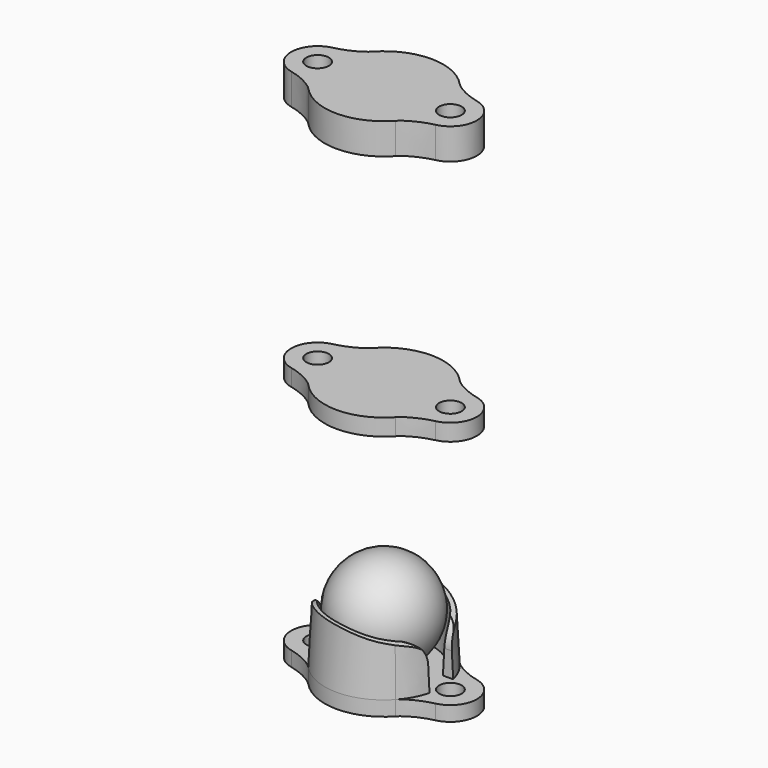
from build123d import *

# Parameters (mm, degrees)
F0_R      = 1.143
F0_R_2    = 2.8456204591
F1_DEPTH  = 1.5
F2_R      = 5.0041919231
F3_DEPTH  = 5.9
F3_TAPER  = 3
F5_DEPTH  = 12.5
F8_DEPTH  = 5
F11_DEPTH = 3
F16_R     = 1.143
F17_DEPTH = 1.7
F19_R     = 1.143
F20_DEPTH = 3.15


with BuildPart() as f1:
    # F0 (on Top) → F1 (new body)
    with BuildSketch(Plane.XY):
        with BuildLine():
            add(Edge.make_bspline(
                [(-7.2984665157, -2.6173944273), (-6.2042335048, -2.8546305839), (-4.9513294362, -3.4839485306), (-4.4265845051, -4.0565589196)],
                knots=[0, 0, 0, 0, 3.2123045807, 3.2123045807, 3.2123045807, 3.2123045807], degree=3))
            ThreePointArc((-4.4265845051, -4.0565589196), (0, -6.0041919231), (4.4265845051, -4.0565589196))
            add(Edge.make_bspline(
                [(7.2984665157, -2.6173944273), (6.2042335048, -2.8546305839), (4.9513294362, -3.4839485306), (4.4265845051, -4.0565589196)],
                knots=[0, 0, 0, 0, 3.2123045807, 3.2123045807, 3.2123045807, 3.2123045807], degree=3))
            ThreePointArc((7.2984665157, -2.6173944273), (9.4092030981, 0), (7.2984665157, 2.6173944273))
            add(Edge.make_bspline(
                [(7.2984665157, 2.6173944273), (6.2042335048, 2.8546305839), (4.9513294362, 3.4839485306), (4.4265845051, 4.0565589196)],
                knots=[0, 0, 0, 0, 3.2123045807, 3.2123045807, 3.2123045807, 3.2123045807], degree=3))
            ThreePointArc((4.4265845051, 4.0565589196), (0, 6.0041919231), (-4.4265845051, 4.0565589196))
            add(Edge.make_bspline(
                [(-7.2984665157, 2.6173944273), (-6.2042335048, 2.8546305839), (-4.9513294362, 3.4839485306), (-4.4265845051, 4.0565589196)],
                knots=[0, 0, 0, 0, 3.2123045807, 3.2123045807, 3.2123045807, 3.2123045807], degree=3))
            ThreePointArc((-7.2984665157, 2.6173944273), (-9.4092030981, 0), (-7.2984665157, -2.6173944273))
        make_face()
        with Locations((-6.731, 0)):
            Circle(F0_R, mode=Mode.SUBTRACT)
        Circle(F0_R_2, mode=Mode.SUBTRACT)
        with Locations((6.731, 0)):
            Circle(F0_R, mode=Mode.SUBTRACT)
    extrude(amount=F1_DEPTH)

    # F2 (on face) → F3 (join)
    with BuildSketch(Plane.XY.offset(1.5)):
        with BuildLine():
            ThreePointArc((5.946384835, 0.8311606601), (5.4314290676, 2.5592770333), (4.4265845051, 4.0565589196))
            ThreePointArc((4.4265845051, 4.0565589196), (0, 6.0041919231), (-4.4265845051, 4.0565589196))
            ThreePointArc((-4.4265845051, 4.0565589196), (-5.4314290676, 2.5592770333), (-5.946384835, 0.8311606601))
            ThreePointArc((-5.946384835, 0.8311606601), (-5.6814133829, 0.4525670483), (-5.588, 0))
            ThreePointArc((-5.588, 0), (-5.6814133829, -0.4525670483), (-5.946384835, -0.8311606601))
            ThreePointArc((-5.946384835, -0.8311606601), (-5.4314290676, -2.5592770333), (-4.4265845051, -4.0565589196))
            ThreePointArc((-4.4265845051, -4.0565589196), (0, -6.0041919231), (4.4265845051, -4.0565589196))
            ThreePointArc((4.4265845051, -4.0565589196), (5.4314290676, -2.5592770333), (5.946384835, -0.8311606601))
            ThreePointArc((5.946384835, -0.8311606601), (5.588, 0), (5.946384835, 0.8311606601))
        make_face()
        Circle(F2_R, mode=Mode.SUBTRACT)
    extrude(amount=F3_DEPTH, taper=F3_TAPER)

    # F4 (on Front) → F5 (intersect, symmetric)
    with BuildSketch(Plane.XZ):
        with BuildLine():
            add(Edge.make_bspline(
                [(-5.946384835, 1.5), (-5.9463647853, 2.6712965471), (-5.7905424174, 4.6856700767), (-5.5972039, 6.3163237013), (-4.3928711875, 7.1522429039), (-2.8376029373, 7.4161516003), (-0.7200836101, 7.340335589), (0.7802516867, 7.1533421497), (3.1334235091, 6.5223835781), (3.8186280211, 6.3529182377), (4.8167760645, 6.0376571627), (5.1949238805, 5.7988276186), (5.5146376508, 5.3802243722), (5.8311107868, 4.4006531817), (5.9067641402, 2.6107844785), (5.946384835, 1.5)],
                knots=[0, 0, 0, 0, 0.1159964826, 0.1949285696, 0.2673379181, 0.3482405722, 0.4400803653, 0.5224486339, 0.6201369199, 0.6767587489, 0.7402489697, 0.7829805031, 0.8265331577, 0.889204068, 1, 1, 1, 1], degree=3))
            Line((-5.946384835, 1.5), (5.946384835, 1.5))
        make_face()
        Polygon((5.946384835, 1.5), (-5.946384835, 1.5), (-9.525, 1.5), (-9.525, 0), (9.525, 0), (9.525, 1.5), align=None)
    extrude(amount=F5_DEPTH, both=True, mode=Mode.INTERSECT)

    # F7 (on plane+point) → F8 (cut)
    with BuildSketch(Plane.YZ.offset(-5.946384835)):
        with BuildLine():
            Line((-1.5, 1.5), (1.5, 1.5))
            Line((1.5, 1.5), (1.5, 4.4238131836))
            ThreePointArc((1.5, 4.4238131836), (2.3786796564, 6.5451335272), (4.5, 7.4238131836))
            Line((4.5, 7.4238131836), (6.4823843132, 7.4238131836))
            Line((6.4823843132, 7.4238131836), (6.4823843132, 8.7238131836))
            Line((6.4823843132, 8.7238131836), (-6.4823843132, 8.7238131836))
            Line((-6.4823843132, 8.7238131836), (-6.4823843132, 7.4238131836))
            Line((-6.4823843132, 7.4238131836), (-4.5, 7.4238131836))
            ThreePointArc((-4.5, 7.4238131836), (-2.3786796564, 6.5451335272), (-1.5, 4.4238131836))
            Line((-1.5, 4.4238131836), (-1.5, 1.5))
        make_face()
    extrude(amount=F8_DEPTH, mode=Mode.SUBTRACT)

    # F10 (on plane+point) → F11 (cut)
    with BuildSketch(Plane.YZ.offset(5.946384835)):
        with BuildLine():
            Line((-1.5, 3.9830849588), (-1.5, 1.5))
            Line((-1.5, 1.5), (0, 1.5))
            Line((0, 1.5), (1.5, 1.5))
            Line((1.5, 1.5), (1.5, 3.9830849588))
            ThreePointArc((1.5, 3.9830849588), (1.9660649603, 5.3935925366), (3.1807554021, 6.2487389012))
            Line((3.1807554021, 6.2487389012), (3.1807554021, 6.9125854902))
            Line((3.1807554021, 6.9125854902), (0, 6.9125854902))
            Line((0, 6.9125854902), (-3.1807554021, 6.9125854902))
            Line((-3.1807554021, 6.9125854902), (-3.1807554021, 6.2487389012))
            ThreePointArc((-3.1807554021, 6.2487389012), (-1.9660649603, 5.3935925366), (-1.5, 3.9830849588))
        make_face()
    extrude(amount=-F11_DEPTH, mode=Mode.SUBTRACT)


with BuildPart() as f14:
    # F13 (on offset) → F14 (revolve)
    with BuildSketch(Plane.XY.offset(6.5)):
        with BuildLine():
            Line((0, -5), (0, 5))
            ThreePointArc((0, 5), (-5, 0), (0, -5))
        make_face()
    revolve(axis=Axis((0, 0, 6.5), (0, 1, 0)))


with BuildPart() as f17:
    # F16 (on offset) → F17 (new body)
    with BuildSketch(Plane.XY.offset(25)):
        with BuildLine():
            add(Edge.make_bspline(
                [(4.4265845051, 4.0565589196), (4.9513294362, 3.4839485306), (6.2042335048, 2.8546305839), (7.2984665157, 2.6173944273)],
                knots=[0, 0, 0, 0, 1, 1, 1, 1], degree=3))
            ThreePointArc((4.4265845051, 4.0565589196), (0, 6.0041919231), (-4.4265845051, 4.0565589196))
            add(Edge.make_bspline(
                [(-7.2984665157, 2.6173944273), (-6.2042335048, 2.8546305839), (-4.9513294362, 3.4839485306), (-4.4265845051, 4.0565589196)],
                knots=[0, 0, 0, 0, 1, 1, 1, 1], degree=3))
            ThreePointArc((-7.2984665157, 2.6173944273), (-9.4092030981, 0), (-7.2984665157, -2.6173944273))
            add(Edge.make_bspline(
                [(-4.4265845051, -4.0565589196), (-4.9513294362, -3.4839485306), (-6.2042335048, -2.8546305839), (-7.2984665157, -2.6173944273)],
                knots=[0, 0, 0, 0, 1, 1, 1, 1], degree=3))
            ThreePointArc((-4.4265845051, -4.0565589196), (0, -6.0041919231), (4.4265845051, -4.0565589196))
            add(Edge.make_bspline(
                [(7.2984665157, -2.6173944273), (6.2042335048, -2.8546305839), (4.9513294362, -3.4839485306), (4.4265845051, -4.0565589196)],
                knots=[0, 0, 0, 0, 1, 1, 1, 1], degree=3))
            ThreePointArc((7.2984665157, -2.6173944273), (9.4092030981, 0), (7.2984665157, 2.6173944273))
        make_face()
        with Locations((-6.731, 0)):
            Circle(F16_R, mode=Mode.SUBTRACT)
        with Locations((6.731, 0)):
            Circle(F16_R, mode=Mode.SUBTRACT)
    extrude(amount=F17_DEPTH)


with BuildPart() as f20:
    # F19 (on offset) → F20 (new body)
    with BuildSketch(Plane.XY.offset(50)):
        with BuildLine():
            add(Edge.make_bspline(
                [(7.2984665157, 2.6173944273), (6.2042335048, 2.8546305839), (4.9513294362, 3.4839485306), (4.4265845051, 4.0565589196)],
                knots=[0, 0, 0, 0, 1, 1, 1, 1], degree=3))
            ThreePointArc((4.4265845051, 4.0565589196), (0, 6.0041919231), (-4.4265845051, 4.0565589196))
            add(Edge.make_bspline(
                [(-4.4265845051, 4.0565589196), (-4.9513294362, 3.4839485306), (-6.2042335048, 2.8546305839), (-7.2984665157, 2.6173944273)],
                knots=[0, 0, 0, 0, 1, 1, 1, 1], degree=3))
            ThreePointArc((-7.2984665157, 2.6173944273), (-9.4092030981, 0), (-7.2984665157, -2.6173944273))
            add(Edge.make_bspline(
                [(-7.2984665157, -2.6173944273), (-6.2042335048, -2.8546305839), (-4.9513294362, -3.4839485306), (-4.4265845051, -4.0565589196)],
                knots=[0, 0, 0, 0, 1, 1, 1, 1], degree=3))
            ThreePointArc((-4.4265845051, -4.0565589196), (0, -6.0041919231), (4.4265845051, -4.0565589196))
            add(Edge.make_bspline(
                [(4.4265845051, -4.0565589196), (4.9513294362, -3.4839485306), (6.2042335048, -2.8546305839), (7.2984665157, -2.6173944273)],
                knots=[0, 0, 0, 0, 1, 1, 1, 1], degree=3))
            ThreePointArc((7.2984665157, -2.6173944273), (9.4092030981, 0), (7.2984665157, 2.6173944273))
        make_face()
        with Locations((-6.731, 0)):
            Circle(F19_R, mode=Mode.SUBTRACT)
        with Locations((6.731, 0)):
            Circle(F19_R, mode=Mode.SUBTRACT)
    extrude(amount=F20_DEPTH)


solid = Compound([f1.part, f14.part, f17.part, f20.part])
